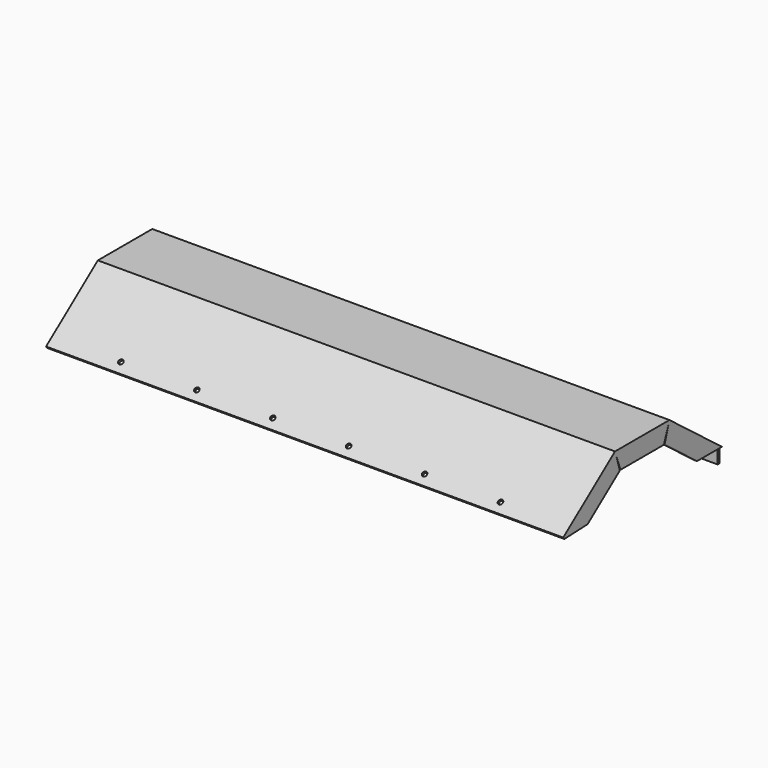
from build123d import *

# Parameters (mm, degrees)
F1_DEPTH  = 342.9
F3_DEPTH  = 1.5875
F4_W      = 1.5875
F4_H      = 10.3091086821
F5_DEPTH  = 25.4
F7_DEPTH  = 1.5875
F9_R      = 1.5875
F10_DEPTH = 1.5875


with BuildPart() as f1:
    # F0 (on Right) → F1 (new body)
    with BuildSketch(Plane.YZ):
        Polygon((-0.9648254583, 1.2606617647), (0, 0), (42.8625, 32.8040655826), (87.3125, 32.8040655826), (130.175, 0), (130.175, -9.525), (131.7625, -9.525), (131.7625, 0.7841086821), (87.8502715669, 34.3915655826), (42.3247284331, 34.3915655826), align=None)
    extrude(amount=F1_DEPTH)

    # F6 (on face) → F7 (join)
    with BuildSketch(Plane(origin=(0, 0, 0), x_dir=(0, -1, 0), z_dir=(-1, 0, 0))):
        Polygon((-130.175, 0), (-110.8146041448, 0.8236222302), (-83.7526464353, 21.5350188005), (-87.3125, 32.8040655826), align=None)
        Polygon((-42.8625, 32.8040655826), (-87.3125, 32.8040655826), (-83.2905208193, 21.6915655826), (-46.8844791807, 21.6915655826), align=None)
        Polygon((0, 0), (-42.8625, 32.8040655826), (-46.4223535647, 21.5350188005), (-19.3603958552, 0.8236222302), align=None)
        Polygon((-130.175, -9.525), (-130.175, 0), (-87.3125, 32.8040655826), (-42.8625, 32.8040655826), (0, 0), (0.9648254583, 1.2606617647), (-42.3247284331, 34.3915655826), (-87.8502715669, 34.3915655826), (-131.7625, 0.7841086821), (-131.7625, -9.525), align=None)
    extrude(amount=F7_DEPTH)


with BuildPart() as f3:
    # F2 (on face) → F3 (new body)
    with BuildSketch(Plane.YZ.offset(342.9)):
        Polygon((0, 0), (19.3603958552, 0.8236222302), (46.4223535647, 21.5350188005), (42.8625, 32.8040655826), align=None)
        Polygon((87.3125, 32.8040655826), (42.8625, 32.8040655826), (46.8844791807, 21.6915655826), (83.2905208193, 21.6915655826), align=None)
        Polygon((130.175, 0), (87.3125, 32.8040655826), (83.7526464353, 21.5350188005), (110.8146041448, 0.8236222302), align=None)
        Polygon((-0.9648254583, 1.2606617647), (0, 0), (42.8625, 32.8040655826), (87.3125, 32.8040655826), (130.175, 0), (130.175, -9.525), (131.7625, -9.525), (131.7625, 0.7841086821), (87.8502715669, 34.3915655826), (42.3247284331, 34.3915655826), align=None)
    extrude(amount=F3_DEPTH)

    # F4 (on face) → F5 (cut)
    with BuildSketch(Plane(origin=(0, 131.7625, 0), x_dir=(-1, 0, 0), z_dir=(0, 1, 0))):
        with Locations((-343.69375, -4.3704456589)):
            Rectangle(F4_W, F4_H)
    extrude(amount=-F5_DEPTH, mode=Mode.SUBTRACT)


with BuildPart() as f1_1:
    add(f1.part)

    # F8: union F3
    add(f3.part)

    # F9 (on face) → F10 (cut, through all)
    with BuildSketch(Plane(origin=(0, -0.9648254583, 1.2606617647), x_dir=(1, 0, 0), z_dir=(0, -0.6077640682, 0.7941176471))):
        with Locations((44.4500253916, 6.35)):
            Circle(F9_R)
        with Locations((95.2500253916, 6.35)):
            Circle(F9_R)
        with Locations((146.0500253916, 6.35)):
            Circle(F9_R)
        with Locations((196.8500253916, 6.35)):
            Circle(F9_R)
        with Locations((247.6500253916, 6.35)):
            Circle(F9_R)
        with Locations((298.4500253916, 6.35)):
            Circle(F9_R)
    extrude(amount=-F10_DEPTH, mode=Mode.SUBTRACT)


solid = f1_1.part
